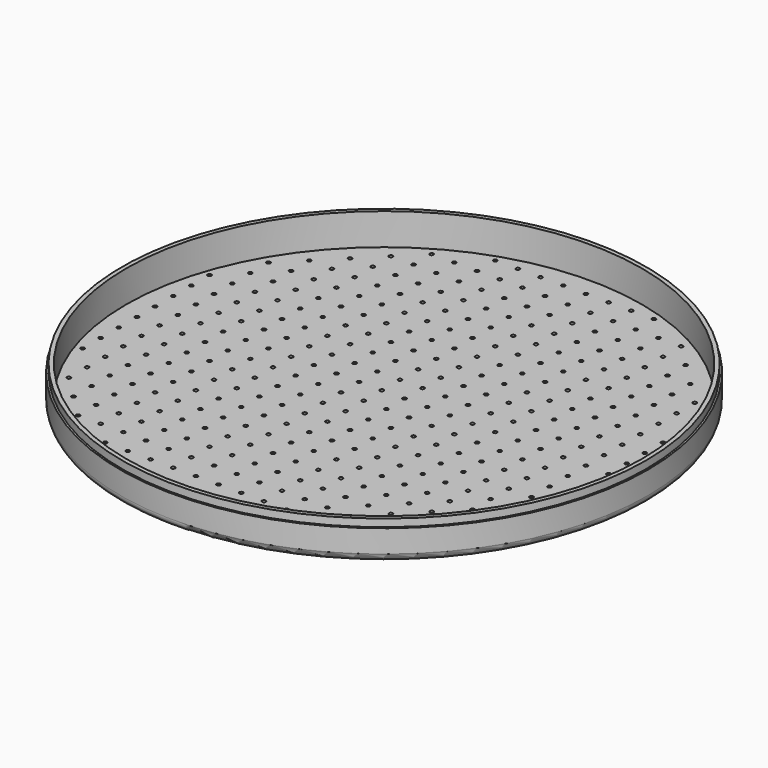
from build123d import *

# Parameters (mm, degrees)
F0_R     = 69.85
F1_DEPTH = 10
F2_T     = -1.6
F3_R     = 0.5
F4_DEPTH = 1.6
F5_R     = 2
F6_R     = 69.85
F6_R_2   = 69.35
F7_DEPTH = 2


with BuildPart() as f1:
    # F0 (on Top) → F1 (new body)
    with BuildSketch(Plane.XY):
        Circle(F0_R)
    extrude(amount=F1_DEPTH)

    # F2
    f2_openings = [f1.faces().sort_by_distance(p)[0] for p in [
        (0, 0, 10),
    ]]
    offset(amount=F2_T, openings=f2_openings)

    # F3 (on face) → F4 (cut, through all)
    with BuildSketch(Plane(origin=(0, 0, 0), x_dir=(1, 0, 0), z_dir=(0, 0, -1))):
        with Locations((-3, 3)):
            Circle(F3_R)
        with Locations((-3, 9)):
            Circle(F3_R)
        with Locations((-3, 15)):
            Circle(F3_R)
        with Locations((-3, 21)):
            Circle(F3_R)
        with Locations((-3, 27)):
            Circle(F3_R)
        with Locations((-3, 33)):
            Circle(F3_R)
        with Locations((-3, 39)):
            Circle(F3_R)
        with Locations((-3, 45)):
            Circle(F3_R)
        with Locations((-3, 51)):
            Circle(F3_R)
        with Locations((-3, 57)):
            Circle(F3_R)
        with Locations((-3, 63)):
            Circle(F3_R)
        with Locations((-9, 3)):
            Circle(F3_R)
        with Locations((-9, 9)):
            Circle(F3_R)
        with Locations((-9, 15)):
            Circle(F3_R)
        with Locations((-9, 21)):
            Circle(F3_R)
        with Locations((-9, 27)):
            Circle(F3_R)
        with Locations((-9, 33)):
            Circle(F3_R)
        with Locations((-9, 39)):
            Circle(F3_R)
        with Locations((-9, 45)):
            Circle(F3_R)
        with Locations((-9, 51)):
            Circle(F3_R)
        with Locations((-9, 57)):
            Circle(F3_R)
        with Locations((-9, 63)):
            Circle(F3_R)
        with Locations((-15, 3)):
            Circle(F3_R)
        with Locations((-15, 9)):
            Circle(F3_R)
        with Locations((-15, 15)):
            Circle(F3_R)
        with Locations((-15, 21)):
            Circle(F3_R)
        with Locations((-15, 27)):
            Circle(F3_R)
        with Locations((-15, 33)):
            Circle(F3_R)
        with Locations((-15, 39)):
            Circle(F3_R)
        with Locations((-15, 45)):
            Circle(F3_R)
        with Locations((-15, 51)):
            Circle(F3_R)
        with Locations((-15, 57)):
            Circle(F3_R)
        with Locations((-15, 63)):
            Circle(F3_R)
        with Locations((-21, 3)):
            Circle(F3_R)
        with Locations((-21, 9)):
            Circle(F3_R)
        with Locations((-21, 15)):
            Circle(F3_R)
        with Locations((-21, 21)):
            Circle(F3_R)
        with Locations((-21, 27)):
            Circle(F3_R)
        with Locations((-21, 33)):
            Circle(F3_R)
        with Locations((-21, 39)):
            Circle(F3_R)
        with Locations((-21, 45)):
            Circle(F3_R)
        with Locations((-21, 51)):
            Circle(F3_R)
        with Locations((-21, 57)):
            Circle(F3_R)
        with Locations((-21, 63)):
            Circle(F3_R)
        with Locations((-27, 3)):
            Circle(F3_R)
        with Locations((-27, 9)):
            Circle(F3_R)
        with Locations((-27, 15)):
            Circle(F3_R)
        with Locations((-27, 21)):
            Circle(F3_R)
        with Locations((-27, 27)):
            Circle(F3_R)
        with Locations((-27, 33)):
            Circle(F3_R)
        with Locations((-27, 39)):
            Circle(F3_R)
        with Locations((-27, 45)):
            Circle(F3_R)
        with Locations((-27, 51)):
            Circle(F3_R)
        with Locations((-27, 57)):
            Circle(F3_R)
        with Locations((-33, 3)):
            Circle(F3_R)
        with Locations((-33, 9)):
            Circle(F3_R)
        with Locations((-33, 15)):
            Circle(F3_R)
        with Locations((-33, 21)):
            Circle(F3_R)
        with Locations((-33, 27)):
            Circle(F3_R)
        with Locations((-33, 33)):
            Circle(F3_R)
        with Locations((-33, 39)):
            Circle(F3_R)
        with Locations((-33, 45)):
            Circle(F3_R)
        with Locations((-33, 51)):
            Circle(F3_R)
        with Locations((-33, 57)):
            Circle(F3_R)
        with Locations((-39, 3)):
            Circle(F3_R)
        with Locations((-39, 9)):
            Circle(F3_R)
        with Locations((-39, 15)):
            Circle(F3_R)
        with Locations((-39, 21)):
            Circle(F3_R)
        with Locations((-39, 27)):
            Circle(F3_R)
        with Locations((-39, 33)):
            Circle(F3_R)
        with Locations((-39, 39)):
            Circle(F3_R)
        with Locations((-39, 45)):
            Circle(F3_R)
        with Locations((-39, 51)):
            Circle(F3_R)
        with Locations((-45, 3)):
            Circle(F3_R)
        with Locations((-45, 9)):
            Circle(F3_R)
        with Locations((-45, 15)):
            Circle(F3_R)
        with Locations((-45, 21)):
            Circle(F3_R)
        with Locations((-45, 27)):
            Circle(F3_R)
        with Locations((-45, 33)):
            Circle(F3_R)
        with Locations((-45, 39)):
            Circle(F3_R)
        with Locations((-45, 45)):
            Circle(F3_R)
        with Locations((-51, 3)):
            Circle(F3_R)
        with Locations((-51, 9)):
            Circle(F3_R)
        with Locations((-51, 15)):
            Circle(F3_R)
        with Locations((-51, 21)):
            Circle(F3_R)
        with Locations((-51, 27)):
            Circle(F3_R)
        with Locations((-51, 33)):
            Circle(F3_R)
        with Locations((-51, 39)):
            Circle(F3_R)
        with Locations((-57, 3)):
            Circle(F3_R)
        with Locations((-57, 9)):
            Circle(F3_R)
        with Locations((-57, 15)):
            Circle(F3_R)
        with Locations((-57, 21)):
            Circle(F3_R)
        with Locations((-57, 27)):
            Circle(F3_R)
        with Locations((-57, 33)):
            Circle(F3_R)
        with Locations((-63, 3)):
            Circle(F3_R)
        with Locations((-63, 9)):
            Circle(F3_R)
        with Locations((-63, 15)):
            Circle(F3_R)
        with Locations((-63, 21)):
            Circle(F3_R)
        with Locations((-3, -3)):
            Circle(F3_R)
        with Locations((-9, -3)):
            Circle(F3_R)
        with Locations((-3, -9)):
            Circle(F3_R)
        with Locations((-51, -27)):
            Circle(F3_R)
        with Locations((-57, -9)):
            Circle(F3_R)
        with Locations((-21, -3)):
            Circle(F3_R)
        with Locations((-15, -33)):
            Circle(F3_R)
        with Locations((-27, -27)):
            Circle(F3_R)
        with Locations((-21, -57)):
            Circle(F3_R)
        with Locations((-33, -51)):
            Circle(F3_R)
        with Locations((-33, -9)):
            Circle(F3_R)
        with Locations((-45, -3)):
            Circle(F3_R)
        with Locations((-39, -33)):
            Circle(F3_R)
        with Locations((-9, -51)):
            Circle(F3_R)
        with Locations((-39, -21)):
            Circle(F3_R)
        with Locations((-45, -45)):
            Circle(F3_R)
        with Locations((-63, -21)):
            Circle(F3_R)
        with Locations((-15, -21)):
            Circle(F3_R)
        with Locations((-21, -45)):
            Circle(F3_R)
        with Locations((-51, -21)):
            Circle(F3_R)
        with Locations((-27, -21)):
            Circle(F3_R)
        with Locations((-33, -45)):
            Circle(F3_R)
        with Locations((-9, -45)):
            Circle(F3_R)
        with Locations((-39, -15)):
            Circle(F3_R)
        with Locations((-45, -39)):
            Circle(F3_R)
        with Locations((-63, -15)):
            Circle(F3_R)
        with Locations((-15, -15)):
            Circle(F3_R)
        with Locations((-21, -39)):
            Circle(F3_R)
        with Locations((-3, -63)):
            Circle(F3_R)
        with Locations((-3, -57)):
            Circle(F3_R)
        with Locations((-3, -51)):
            Circle(F3_R)
        with Locations((-3, -45)):
            Circle(F3_R)
        with Locations((-3, -39)):
            Circle(F3_R)
        with Locations((-3, -33)):
            Circle(F3_R)
        with Locations((-3, -27)):
            Circle(F3_R)
        with Locations((-3, -21)):
            Circle(F3_R)
        with Locations((-3, -15)):
            Circle(F3_R)
        with Locations((-51, -15)):
            Circle(F3_R)
        with Locations((-15, -63)):
            Circle(F3_R)
        with Locations((-27, -15)):
            Circle(F3_R)
        with Locations((-33, -39)):
            Circle(F3_R)
        with Locations((-9, -21)):
            Circle(F3_R)
        with Locations((-9, -15)):
            Circle(F3_R)
        with Locations((-9, -39)):
            Circle(F3_R)
        with Locations((-9, -9)):
            Circle(F3_R)
        with Locations((-39, -9)):
            Circle(F3_R)
        with Locations((-45, -33)):
            Circle(F3_R)
        with Locations((-63, -9)):
            Circle(F3_R)
        with Locations((-15, -9)):
            Circle(F3_R)
        with Locations((-21, -33)):
            Circle(F3_R)
        with Locations((-27, -57)):
            Circle(F3_R)
        with Locations((-15, -57)):
            Circle(F3_R)
        with Locations((-27, -9)):
            Circle(F3_R)
        with Locations((-33, -33)):
            Circle(F3_R)
        with Locations((-9, -33)):
            Circle(F3_R)
        with Locations((-39, -3)):
            Circle(F3_R)
        with Locations((-45, -27)):
            Circle(F3_R)
        with Locations((-63, -3)):
            Circle(F3_R)
        with Locations((-15, -3)):
            Circle(F3_R)
        with Locations((-21, -27)):
            Circle(F3_R)
        with Locations((-27, -51)):
            Circle(F3_R)
        with Locations((-51, -9)):
            Circle(F3_R)
        with Locations((-57, -33)):
            Circle(F3_R)
        with Locations((-45, -21)):
            Circle(F3_R)
        with Locations((-9, -27)):
            Circle(F3_R)
        with Locations((-21, -21)):
            Circle(F3_R)
        with Locations((-27, -45)):
            Circle(F3_R)
        with Locations((-51, -3)):
            Circle(F3_R)
        with Locations((-57, -27)):
            Circle(F3_R)
        with Locations((-15, -51)):
            Circle(F3_R)
        with Locations((-27, -3)):
            Circle(F3_R)
        with Locations((-33, -27)):
            Circle(F3_R)
        with Locations((-39, -51)):
            Circle(F3_R)
        with Locations((-51, -39)):
            Circle(F3_R)
        with Locations((-57, -21)):
            Circle(F3_R)
        with Locations((-21, -15)):
            Circle(F3_R)
        with Locations((-15, -45)):
            Circle(F3_R)
        with Locations((-27, -39)):
            Circle(F3_R)
        with Locations((-33, -21)):
            Circle(F3_R)
        with Locations((-45, -15)):
            Circle(F3_R)
        with Locations((-39, -45)):
            Circle(F3_R)
        with Locations((-9, -63)):
            Circle(F3_R)
        with Locations((-51, -33)):
            Circle(F3_R)
        with Locations((-57, -15)):
            Circle(F3_R)
        with Locations((-21, -9)):
            Circle(F3_R)
        with Locations((-15, -39)):
            Circle(F3_R)
        with Locations((-27, -33)):
            Circle(F3_R)
        with Locations((-21, -63)):
            Circle(F3_R)
        with Locations((-33, -57)):
            Circle(F3_R)
        with Locations((-33, -15)):
            Circle(F3_R)
        with Locations((-45, -9)):
            Circle(F3_R)
        with Locations((-39, -39)):
            Circle(F3_R)
        with Locations((-9, -57)):
            Circle(F3_R)
        with Locations((-39, -27)):
            Circle(F3_R)
        with Locations((-57, -3)):
            Circle(F3_R)
        with Locations((-15, -27)):
            Circle(F3_R)
        with Locations((-21, -51)):
            Circle(F3_R)
        with Locations((-33, -3)):
            Circle(F3_R)
        with Locations((3, 3)):
            Circle(F3_R)
        with Locations((3, -3)):
            Circle(F3_R)
        with Locations((9, 3)):
            Circle(F3_R)
        with Locations((3, 9)):
            Circle(F3_R)
        with Locations((3, -9)):
            Circle(F3_R)
        with Locations((9, -3)):
            Circle(F3_R)
        with Locations((3, 63)):
            Circle(F3_R)
        with Locations((3, 57)):
            Circle(F3_R)
        with Locations((3, 51)):
            Circle(F3_R)
        with Locations((3, 45)):
            Circle(F3_R)
        with Locations((3, 39)):
            Circle(F3_R)
        with Locations((3, 33)):
            Circle(F3_R)
        with Locations((3, 27)):
            Circle(F3_R)
        with Locations((3, 21)):
            Circle(F3_R)
        with Locations((3, 15)):
            Circle(F3_R)
        with Locations((9, 21)):
            Circle(F3_R)
        with Locations((9, 15)):
            Circle(F3_R)
        with Locations((9, 9)):
            Circle(F3_R)
        with Locations((51, -33)):
            Circle(F3_R)
        with Locations((33, -39)):
            Circle(F3_R)
        with Locations((27, -9)):
            Circle(F3_R)
        with Locations((45, -21)):
            Circle(F3_R)
        with Locations((51, -39)):
            Circle(F3_R)
        with Locations((21, -3)):
            Circle(F3_R)
        with Locations((39, 27)):
            Circle(F3_R)
        with Locations((57, 3)):
            Circle(F3_R)
        with Locations((15, 27)):
            Circle(F3_R)
        with Locations((21, 51)):
            Circle(F3_R)
        with Locations((33, 3)):
            Circle(F3_R)
        with Locations((9, -63)):
            Circle(F3_R)
        with Locations((9, -57)):
            Circle(F3_R)
        with Locations((27, -15)):
            Circle(F3_R)
        with Locations((15, -57)):
            Circle(F3_R)
        with Locations((39, -51)):
            Circle(F3_R)
        with Locations((21, -45)):
            Circle(F3_R)
        with Locations((21, -39)):
            Circle(F3_R)
        with Locations((39, 21)):
            Circle(F3_R)
        with Locations((45, 45)):
            Circle(F3_R)
        with Locations((63, 21)):
            Circle(F3_R)
        with Locations((15, 21)):
            Circle(F3_R)
        with Locations((21, 45)):
            Circle(F3_R)
        with Locations((39, -45)):
            Circle(F3_R)
        with Locations((39, -39)):
            Circle(F3_R)
        with Locations((15, -63)):
            Circle(F3_R)
        with Locations((33, -27)):
            Circle(F3_R)
        with Locations((15, -21)):
            Circle(F3_R)
        with Locations((15, -15)):
            Circle(F3_R)
        with Locations((39, 15)):
            Circle(F3_R)
        with Locations((45, 39)):
            Circle(F3_R)
        with Locations((63, 15)):
            Circle(F3_R)
        with Locations((15, 15)):
            Circle(F3_R)
        with Locations((21, 39)):
            Circle(F3_R)
        with Locations((45, -15)):
            Circle(F3_R)
        with Locations((45, -9)):
            Circle(F3_R)
        with Locations((27, -57)):
            Circle(F3_R)
        with Locations((27, -3)):
            Circle(F3_R)
        with Locations((63, -21)):
            Circle(F3_R)
        with Locations((63, -15)):
            Circle(F3_R)
        with Locations((39, 9)):
            Circle(F3_R)
        with Locations((45, 33)):
            Circle(F3_R)
        with Locations((63, 9)):
            Circle(F3_R)
        with Locations((15, 9)):
            Circle(F3_R)
        with Locations((21, 33)):
            Circle(F3_R)
        with Locations((27, 57)):
            Circle(F3_R)
        with Locations((33, -21)):
            Circle(F3_R)
        with Locations((33, -15)):
            Circle(F3_R)
        with Locations((21, -33)):
            Circle(F3_R)
        with Locations((57, -33)):
            Circle(F3_R)
        with Locations((15, -51)):
            Circle(F3_R)
        with Locations((57, -9)):
            Circle(F3_R)
        with Locations((39, 3)):
            Circle(F3_R)
        with Locations((45, 27)):
            Circle(F3_R)
        with Locations((63, 3)):
            Circle(F3_R)
        with Locations((15, 3)):
            Circle(F3_R)
        with Locations((21, 27)):
            Circle(F3_R)
        with Locations((27, 51)):
            Circle(F3_R)
        with Locations((33, -57)):
            Circle(F3_R)
        with Locations((51, -15)):
            Circle(F3_R)
        with Locations((15, -9)):
            Circle(F3_R)
        with Locations((51, -9)):
            Circle(F3_R)
        with Locations((45, -45)):
            Circle(F3_R)
        with Locations((45, -39)):
            Circle(F3_R)
        with Locations((45, 21)):
            Circle(F3_R)
        with Locations((39, 51)):
            Circle(F3_R)
        with Locations((33, 27)):
            Circle(F3_R)
        with Locations((27, -51)):
            Circle(F3_R)
        with Locations((27, 3)):
            Circle(F3_R)
        with Locations((15, 51)):
            Circle(F3_R)
        with Locations((57, 27)):
            Circle(F3_R)
        with Locations((51, 3)):
            Circle(F3_R)
        with Locations((9, -39)):
            Circle(F3_R)
        with Locations((3, -51)):
            Circle(F3_R)
        with Locations((33, -51)):
            Circle(F3_R)
        with Locations((39, -3)):
            Circle(F3_R)
        with Locations((9, 27)):
            Circle(F3_R)
        with Locations((39, -27)):
            Circle(F3_R)
        with Locations((39, 33)):
            Circle(F3_R)
        with Locations((33, 9)):
            Circle(F3_R)
        with Locations((21, 57)):
            Circle(F3_R)
        with Locations((15, 33)):
            Circle(F3_R)
        with Locations((9, 51)):
            Circle(F3_R)
        with Locations((57, 9)):
            Circle(F3_R)
        with Locations((45, 3)):
            Circle(F3_R)
        with Locations((33, 51)):
            Circle(F3_R)
        with Locations((57, 33)):
            Circle(F3_R)
        with Locations((27, 27)):
            Circle(F3_R)
        with Locations((21, 3)):
            Circle(F3_R)
        with Locations((9, -21)):
            Circle(F3_R)
        with Locations((51, 9)):
            Circle(F3_R)
        with Locations((9, -9)):
            Circle(F3_R)
        with Locations((3, -45)):
            Circle(F3_R)
        with Locations((51, -21)):
            Circle(F3_R)
        with Locations((27, -21)):
            Circle(F3_R)
        with Locations((51, 27)):
            Circle(F3_R)
        with Locations((15, -33)):
            Circle(F3_R)
        with Locations((33, -9)):
            Circle(F3_R)
        with Locations((33, -33)):
            Circle(F3_R)
        with Locations((45, -33)):
            Circle(F3_R)
        with Locations((3, -27)):
            Circle(F3_R)
        with Locations((9, -51)):
            Circle(F3_R)
        with Locations((9, -45)):
            Circle(F3_R)
        with Locations((15, -39)):
            Circle(F3_R)
        with Locations((15, -45)):
            Circle(F3_R)
        with Locations((21, -21)):
            Circle(F3_R)
        with Locations((15, -3)):
            Circle(F3_R)
        with Locations((57, -27)):
            Circle(F3_R)
        with Locations((45, -27)):
            Circle(F3_R)
        with Locations((15, -27)):
            Circle(F3_R)
        with Locations((39, 39)):
            Circle(F3_R)
        with Locations((33, 15)):
            Circle(F3_R)
        with Locations((21, 63)):
            Circle(F3_R)
        with Locations((9, 33)):
            Circle(F3_R)
        with Locations((33, 33)):
            Circle(F3_R)
        with Locations((27, 9)):
            Circle(F3_R)
        with Locations((15, 57)):
            Circle(F3_R)
        with Locations((15, 39)):
            Circle(F3_R)
        with Locations((57, 15)):
            Circle(F3_R)
        with Locations((3, -63)):
            Circle(F3_R)
        with Locations((3, -39)):
            Circle(F3_R)
        with Locations((33, -45)):
            Circle(F3_R)
        with Locations((45, -3)):
            Circle(F3_R)
        with Locations((27, -45)):
            Circle(F3_R)
        with Locations((21, -51)):
            Circle(F3_R)
        with Locations((27, -27)):
            Circle(F3_R)
        with Locations((9, 57)):
            Circle(F3_R)
        with Locations((45, 9)):
            Circle(F3_R)
        with Locations((33, 57)):
            Circle(F3_R)
        with Locations((27, 33)):
            Circle(F3_R)
        with Locations((21, 9)):
            Circle(F3_R)
        with Locations((9, 39)):
            Circle(F3_R)
        with Locations((51, -27)):
            Circle(F3_R)
        with Locations((51, 33)):
            Circle(F3_R)
        with Locations((33, 39)):
            Circle(F3_R)
        with Locations((27, 15)):
            Circle(F3_R)
        with Locations((15, 63)):
            Circle(F3_R)
        with Locations((3, -21)):
            Circle(F3_R)
        with Locations((27, -33)):
            Circle(F3_R)
        with Locations((27, -39)):
            Circle(F3_R)
        with Locations((21, -27)):
            Circle(F3_R)
        with Locations((51, 15)):
            Circle(F3_R)
        with Locations((21, -9)):
            Circle(F3_R)
        with Locations((21, -15)):
            Circle(F3_R)
        with Locations((51, -3)):
            Circle(F3_R)
        with Locations((63, -3)):
            Circle(F3_R)
        with Locations((33, -3)):
            Circle(F3_R)
        with Locations((9, 63)):
            Circle(F3_R)
        with Locations((45, 15)):
            Circle(F3_R)
        with Locations((27, 39)):
            Circle(F3_R)
        with Locations((21, 15)):
            Circle(F3_R)
        with Locations((27, 45)):
            Circle(F3_R)
        with Locations((21, 21)):
            Circle(F3_R)
        with Locations((39, 45)):
            Circle(F3_R)
        with Locations((33, 21)):
            Circle(F3_R)
        with Locations((15, 45)):
            Circle(F3_R)
        with Locations((57, 21)):
            Circle(F3_R)
        with Locations((9, -15)):
            Circle(F3_R)
        with Locations((3, -57)):
            Circle(F3_R)
        with Locations((9, 45)):
            Circle(F3_R)
        with Locations((51, 39)):
            Circle(F3_R)
        with Locations((33, 45)):
            Circle(F3_R)
        with Locations((27, 21)):
            Circle(F3_R)
        with Locations((63, -9)):
            Circle(F3_R)
        with Locations((21, -57)):
            Circle(F3_R)
        with Locations((3, -15)):
            Circle(F3_R)
        with Locations((39, -15)):
            Circle(F3_R)
        with Locations((57, -15)):
            Circle(F3_R)
        with Locations((39, -9)):
            Circle(F3_R)
        with Locations((51, 21)):
            Circle(F3_R)
        with Locations((57, -21)):
            Circle(F3_R)
        with Locations((3, -33)):
            Circle(F3_R)
        with Locations((39, -21)):
            Circle(F3_R)
        with Locations((9, -27)):
            Circle(F3_R)
        with Locations((39, -33)):
            Circle(F3_R)
        with Locations((21, -63)):
            Circle(F3_R)
        with Locations((9, -33)):
            Circle(F3_R)
        with Locations((57, -3)):
            Circle(F3_R)
    extrude(amount=-F4_DEPTH, mode=Mode.SUBTRACT)

    # F5
    f5_edges = [f1.edges().sort_by_distance(p)[0] for p in [
        (-69.85, 0, 0),
    ]]
    fillet(f5_edges, radius=F5_R)

    # F6 (on face) → F7 (cut)
    with BuildSketch(Plane.XY.offset(10)):
        Circle(F6_R)
        Circle(F6_R_2, mode=Mode.SUBTRACT)
    extrude(amount=-F7_DEPTH, mode=Mode.SUBTRACT)


solid = f1.part
